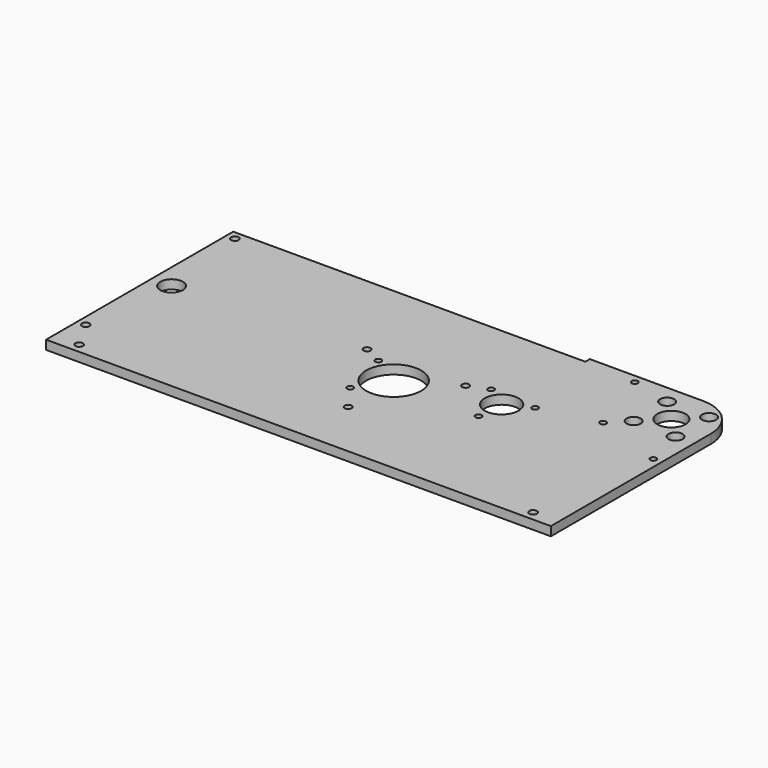
from build123d import *

# Parameters (mm, degrees)
F0_R     = 2.15265
F0_R_2   = 1.7272
F0_R_3   = 2
F0_R_4   = 15.497899
F0_R_5   = 6.35
F0_R_6   = 9.525
F0_R_7   = 3.96875
F0_R_8   = 7.9375
F1_DEPTH = 5.08


with BuildPart() as f1:
    # F0 (on Top) → F1 (new body)
    with BuildSketch(Plane.XY):
        with BuildLine():
            Line((0, 22.225), (-63.674805, 22.225))
            Line((-63.674805, 22.225), (-63.674805, 19.05))
            Line((-63.674805, 19.05), (-261.733055, 19.05))
            Line((-261.733055, 19.05), (-261.733055, -112.545774))
            Line((-261.733055, -112.545774), (22.225, -112.545774))
            Line((22.225, -112.545774), (22.225, 0))
            ThreePointArc((22.225, 0), (15.715448, 15.715448), (0, 22.225))
        make_face()
        with Locations((-247.445555, -107.148274)):
            Circle(F0_R, mode=Mode.SUBTRACT)
        with Locations((-256.970555, -90.638274)):
            Circle(F0_R, mode=Mode.SUBTRACT)
        with Locations((-128.847103, -64.826601)):
            Circle(F0_R_2, mode=Mode.SUBTRACT)
        with Locations((-118.143616, -79.624301)):
            Circle(F0_R_3, mode=Mode.SUBTRACT)
        with Locations((7.9375, -107.148274)):
            Circle(F0_R, mode=Mode.SUBTRACT)
        with Locations((-118.143616, -47.624301)):
            Circle(F0_R_4, mode=Mode.SUBTRACT)
        with Locations((-67.901372, -50.752794)):
            Circle(F0_R_2, mode=Mode.SUBTRACT)
        with Locations((-250.620555, -38.175387)):
            Circle(F0_R_5, mode=Mode.SUBTRACT)
        with Locations((-135.345915, -36.920813)):
            Circle(F0_R_2, mode=Mode.SUBTRACT)
        with Locations((-145.856429, -31.624301)):
            Circle(F0_R_3, mode=Mode.SUBTRACT)
        with Locations((-256.970555, 14.2875)):
            Circle(F0_R, mode=Mode.SUBTRACT)
        with Locations((-90.430803, -31.624301)):
            Circle(F0_R_3, mode=Mode.SUBTRACT)
        with Locations((-66.948161, -35.701698)):
            Circle(F0_R_6, mode=Mode.SUBTRACT)
        with Locations((-53.436924, -29.001654)):
            Circle(F0_R_2, mode=Mode.SUBTRACT)
        with Locations((-79.506187, -27.350645)):
            Circle(F0_R_2, mode=Mode.SUBTRACT)
        with Locations((17.4625, -34.548124)):
            Circle(F0_R_2, mode=Mode.SUBTRACT)
        with Locations((-21.328108, -21.328108)):
            Circle(F0_R_2, mode=Mode.SUBTRACT)
        with Locations((-11.786586, -11.786586)):
            Circle(F0_R_7, mode=Mode.SUBTRACT)
        with Locations((11.786586, -11.786586)):
            Circle(F0_R_7, mode=Mode.SUBTRACT)
        Circle(F0_R_8, mode=Mode.SUBTRACT)
        with Locations((-34.548124, 17.4625)):
            Circle(F0_R_2, mode=Mode.SUBTRACT)
        with Locations((-11.786586, 11.786586)):
            Circle(F0_R_7, mode=Mode.SUBTRACT)
        with Locations((11.786586, 11.786586)):
            Circle(F0_R_7, mode=Mode.SUBTRACT)
    extrude(amount=F1_DEPTH)


solid = f1.part
